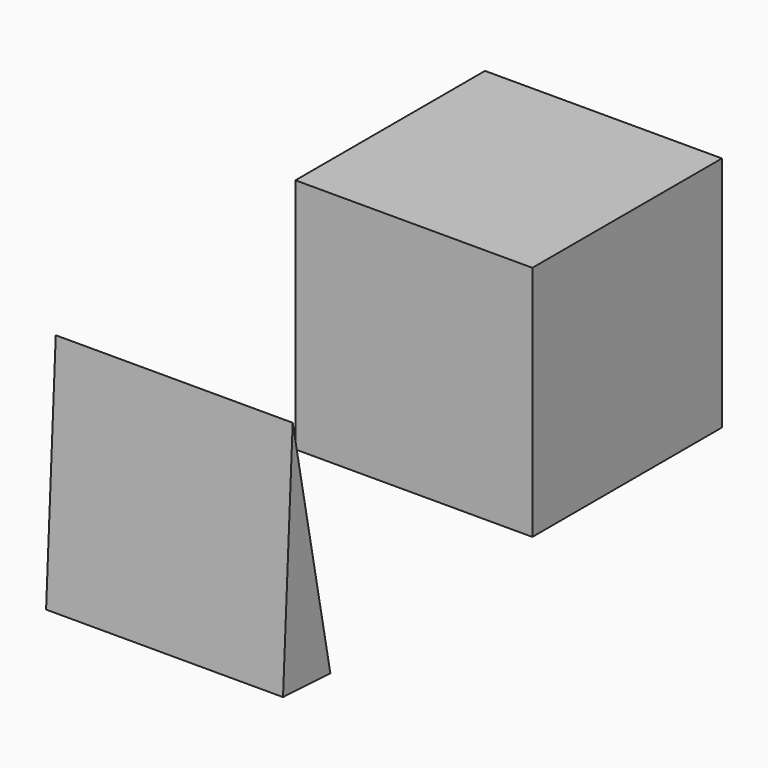
from build123d import *

# Parameters (mm, degrees)
F0_W     = 40
F0_H     = 40
F1_DEPTH = 40
F3_DEPTH = 40


with BuildPart() as f1:
    # F0 (on Top) → F1 (new body)
    with BuildSketch(Plane.XY):
        with Locations((20, 20)):
            Rectangle(F0_W, F0_H)
    extrude(amount=F1_DEPTH)


with BuildPart() as f3:
    # F2 (on Right) → F3 (new body)
    with BuildSketch(Plane.YZ):
        Polygon((-42.632059, -2.924834), (-50.577897, 37.533338), (-52.619031, -2.41455), align=None)
    extrude(amount=F3_DEPTH)


solid = Compound([f1.part, f3.part])
